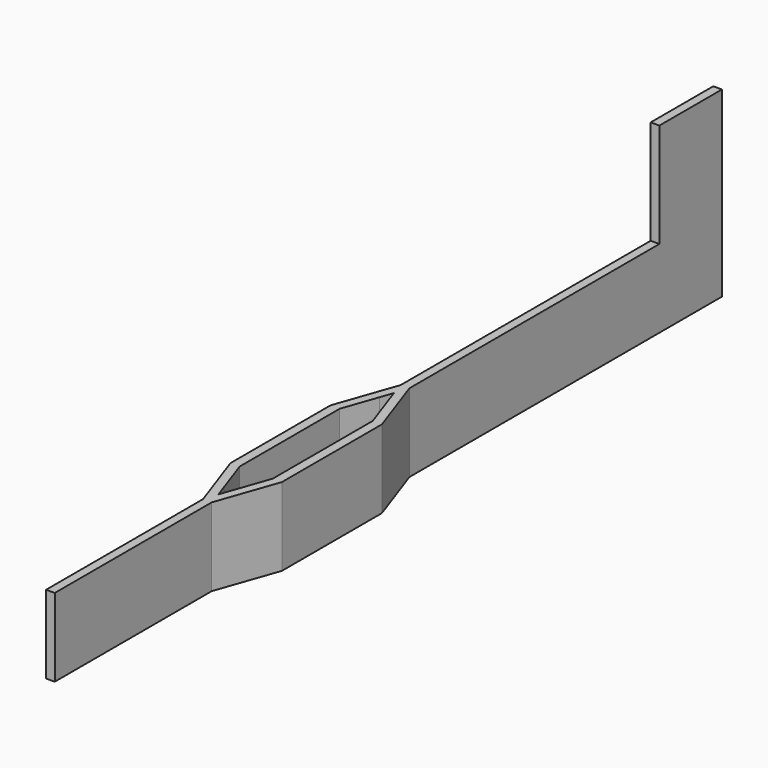
from build123d import *

# Parameters (mm, degrees)
F1_DEPTH = 4.5
F2_W     = 0.5
F2_H     = 4.5
F3_DEPTH = 6


with BuildPart() as f1:
    # F0 (on Top) → F1 (new body)
    with BuildSketch(Plane.XY):
        Polygon((-0.469149, 31.306926), (-0.969149, 31.306926), (-0.969149, 8.820471), (-2.198889, 5.306926), (-2.198889, -1.893074), (-0.969149, -5.406618), (-0.969149, -16.696654), (-0.469149, -16.696654), (-0.469149, -5.406618), (0.760592, -1.893074), (0.760592, 5.306926), (-0.469149, 8.820471), align=None)
        Polygon((-1.669149, -1.893074), (-1.669149, 5.306926), (-0.969149, 7.306926), (-0.719149, 8.021212), (-0.469149, 7.306926), (0.230851, 5.306926), (0.230851, -1.893074), (-0.469149, -3.893074), (-0.719149, -4.607359), (-0.969149, -3.893074), align=None, mode=Mode.SUBTRACT)
    extrude(amount=F1_DEPTH)

    # F2 (on face) → F3 (join)
    with BuildSketch(Plane.XY.offset(4.5)):
        with Locations((-0.719149, 29.056926)):
            Rectangle(F2_W, F2_H)
    extrude(amount=F3_DEPTH)


solid = f1.part
